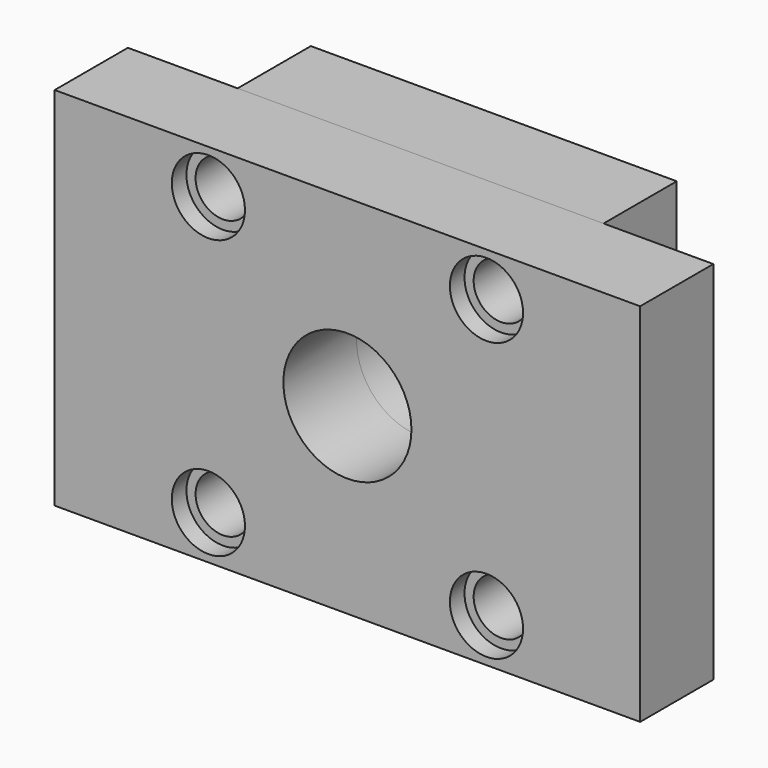
from build123d import *

# Parameters (mm, degrees)
F0_W     = 100
F0_H     = 100
F0_R     = 7.5
F0_R_2   = 17.5
F1_DEPTH = 25
F2_W     = 160
F2_H     = 100
F2_R     = 7.5
F2_R_2   = 17.5
F3_DEPTH = 25
F4_R     = 7.5
F5_DEPTH = 5
F6_R     = 7.5
F7_DEPTH = 5
F8_R     = 10
F8_R_2   = 7.5
F9_DEPTH = 5


with BuildPart() as f1:
    # F0 (on Front) → F1 (new body)
    with BuildSketch(Plane.XZ):
        Rectangle(F0_W, F0_H)
        with Locations((-38, -38)):
            Circle(F0_R, mode=Mode.SUBTRACT)
        with Locations((20, -38)):
            Circle(F0_R, mode=Mode.SUBTRACT)
        with Locations((38, -38)):
            Circle(F0_R, mode=Mode.SUBTRACT)
        with Locations((-38, 38)):
            Circle(F0_R, mode=Mode.SUBTRACT)
        with Locations((-20, 38)):
            Circle(F0_R, mode=Mode.SUBTRACT)
        Circle(F0_R_2, mode=Mode.SUBTRACT)
        with Locations((38, 38)):
            Circle(F0_R, mode=Mode.SUBTRACT)
    extrude(amount=F1_DEPTH)

    # F6 (on face) → F7 (join)
    with BuildSketch(Plane(origin=(0, 0, 0), x_dir=(-1, 0, 0), z_dir=(0, 1, 0))):
        with Locations((38, -38)):
            Circle(F6_R)
        with Locations((-38, -38)):
            Circle(F6_R)
        with Locations((-38, 38)):
            Circle(F6_R)
        with Locations((38, 38)):
            Circle(F6_R)
    extrude(amount=-F7_DEPTH)


with BuildPart() as f3:
    # F2 (on face) → F3 (new body)
    with BuildSketch(Plane.XZ.offset(25)):
        Rectangle(F2_W, F2_H)
        with Locations((-38, -38)):
            Circle(F2_R, mode=Mode.SUBTRACT)
        with Locations((20, -38)):
            Circle(F2_R, mode=Mode.SUBTRACT)
        with Locations((38, -38)):
            Circle(F2_R, mode=Mode.SUBTRACT)
        with Locations((-38, 38)):
            Circle(F2_R, mode=Mode.SUBTRACT)
        with Locations((-20, 38)):
            Circle(F2_R, mode=Mode.SUBTRACT)
        Circle(F2_R_2, mode=Mode.SUBTRACT)
        with Locations((38, 38)):
            Circle(F2_R, mode=Mode.SUBTRACT)
    extrude(amount=F3_DEPTH)

    # F4 (on face) → F5 (join)
    with BuildSketch(Plane.XZ.offset(50)):
        with Locations((-20, 38)):
            Circle(F4_R)
        with Locations((20, -38)):
            Circle(F4_R)
    extrude(amount=-F5_DEPTH)

    # F8 (on face) → F9 (cut)
    with BuildSketch(Plane.XZ.offset(50)):
        with Locations((38, -38)):
            Circle(F8_R)
        with Locations((38, -38)):
            Circle(F8_R_2, mode=Mode.SUBTRACT)
        with Locations((38, 38)):
            Circle(F8_R)
        with Locations((38, 38)):
            Circle(F8_R_2, mode=Mode.SUBTRACT)
        with Locations((-38, 38)):
            Circle(F8_R)
        with Locations((-38, 38)):
            Circle(F8_R_2, mode=Mode.SUBTRACT)
        with Locations((-38, -38)):
            Circle(F8_R)
        with Locations((-38, -38)):
            Circle(F8_R_2, mode=Mode.SUBTRACT)
    extrude(amount=-F9_DEPTH, mode=Mode.SUBTRACT)


solid = Compound([f1.part, f3.part])
